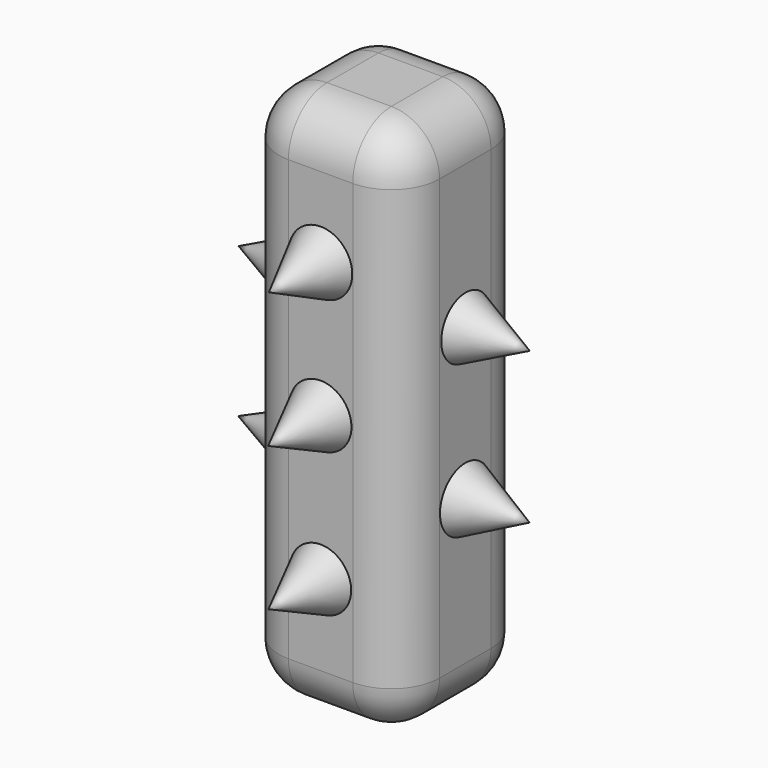
from build123d import *

# Parameters (mm, degrees)
F0_W     = 15
F0_H     = 15
F1_DEPTH = 50
F2_R     = 4.5


with BuildPart() as f1:
    # F0 (on Top) → F1 (new body)
    with BuildSketch(Plane.XY):
        Rectangle(F0_W, F0_H)
        Rectangle(F0_W, F0_H)
    extrude(amount=F1_DEPTH)

    # F2
    f2_edges = [f1.edges().sort_by_distance(p)[0] for p in [
        (7.5, -7.5, 25),
        (7.5, 7.5, 25),
        (7.5, 0, 0),
        (7.5, 0, 50),
        (-7.5, -7.5, 25),
        (0, -7.5, 0),
        (0, -7.5, 50),
        (-7.5, 7.5, 25),
        (-7.5, 0, 0),
        (-7.5, 0, 50),
        (0, 7.5, 0),
        (0, 7.5, 50),
    ]]
    fillet(f2_edges, radius=F2_R)

    # F3 (on Right) → F4 (revolve)
    with BuildSketch(Plane.YZ):
        Polygon((-7.4830586091, 35.0687503815), (-7.4501908384, 38.030475378), (-13.5346129537, 38.030475378), align=None)
    revolve(axis=Axis((0, -10.492401896, 38.030475378), (0, -1, 0)))

    # F3 (on Right) → F5 (revolve)
    with BuildSketch(Plane.YZ):
        Polygon((-7.4501908384, 22.5472543389), (-7.4830586091, 25.4503991455), (-13.6288413778, 25.4503991455), align=None)
    revolve(axis=Axis((0, -10.5559499934, 25.4503991455), (0, -1, 0)))

    # F3 (on Right) → F6 (revolve)
    with BuildSketch(Plane.YZ):
        Polygon((-7.4501908384, 9.1460486874), (-7.4501908384, 12.0198670775), (-13.5919097811, 12.0198670775), align=None)
    revolve(axis=Axis((0, -10.5210503098, 12.0198670775), (0, -1, 0)))

    # F7 (on Right) → F8 (revolve)
    with BuildSketch(Plane.YZ):
        Polygon((13.5657116771, 37.9279106855), (7.4009066448, 37.9279106855), (7.551304996, 35.076867789), align=None)
    revolve(axis=Axis((0, 10.4833091609, 37.9279106855), (0, 1, 0)))

    # F7 (on Right) → F9 (revolve)
    with BuildSketch(Plane.YZ):
        Polygon((13.4201068431, 25.4457890987), (7.4009066448, 25.4457890987), (7.4009066448, 22.4785897881), align=None)
    revolve(axis=Axis((0, 10.4105067439, 25.4457890987), (0, 1, 0)))

    # F7 (on Right) → F10 (revolve)
    with BuildSketch(Plane.YZ):
        Polygon((13.5394018143, 11.9986543432), (7.4009066448, 11.9986543432), (7.4009066448, 9.0387882665), align=None)
    revolve(axis=Axis((0, 10.4701542296, 11.9986543432), (0, 1, 0)))

    # F11 (on Front) → F12 (revolve)
    with BuildSketch(Plane.XZ):
        Polygon((13.516782783, 32.1163497865), (7.3755676858, 32.1163497865), (7.5397575274, 29.2632691562), align=None)
    revolve(axis=Axis((10.4461752344, 0, 32.1163497865), (1, 0, 0)))

    # F11 (on Front) → F13 (revolve)
    with BuildSketch(Plane.XZ):
        Polygon((13.4953791276, 18.0029701442), (7.3755676858, 18.0029701442), (7.3755676858, 14.9898957461), align=None)
    revolve(axis=Axis((10.4354734067, 0, 18.0029701442), (1, 0, 0)))

    # F14 (on Front) → F15 (revolve)
    with BuildSketch(Plane.XZ):
        Polygon((-7.5117792003, 29.0318671614), (-7.4614328332, 31.8906642497), (-13.6526133865, 31.8906642497), align=None)
    revolve(axis=Axis((-10.5570231099, 0, 31.8906642497), (-1, 0, 0)))

    # F14 (on Front) → F16 (revolve)
    with BuildSketch(Plane.XZ):
        Polygon((-7.4614328332, 15.0173101574), (-7.4614328332, 17.806250602), (-13.6857841818, 17.9158678529), align=None)
    revolve(axis=Axis((-10.5736085075, 0, 17.8610592275), (-0.9998449618, 0, 0.0176083016)))


solid = f1.part
